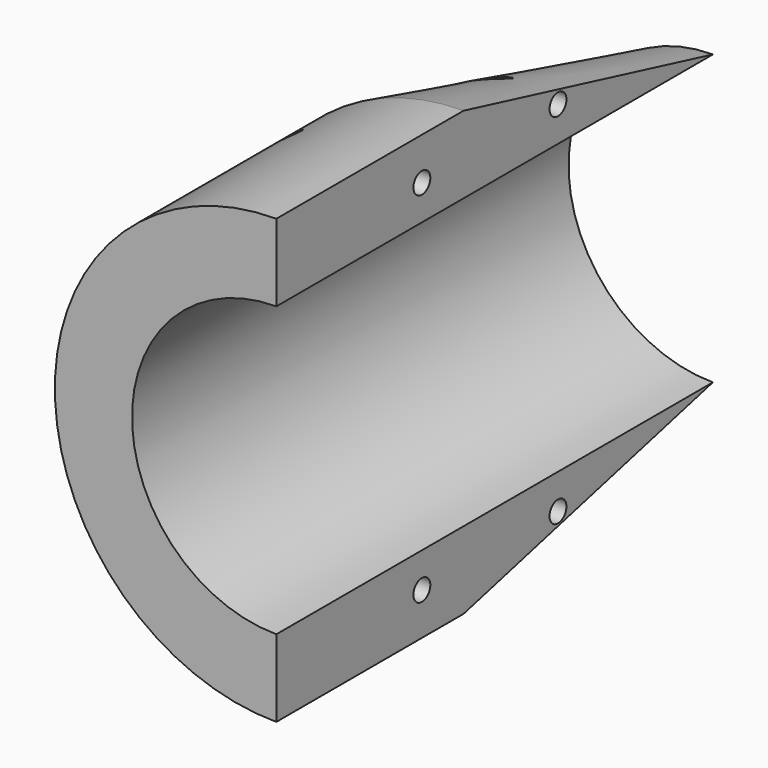
from build123d import *

# Parameters (mm, degrees)
F2_ANGLE       = 180
F4_D           = 12
F4_CBORE_D     = 18
F4_CBORE_DEPTH = 20


with BuildPart() as f2:
    # F0 (on Top) → F2 (revolve, symmetric)
    with BuildSketch(Plane.XY) as f2_sk:
        Polygon((-188.75, 0), (-123, 0), (-123, 465), (-188.75, 199.4), align=None)
    revolve(axis=Axis((0, 70.437513, 0), (0, 1, 0)), revolution_arc=F2_ANGLE / 2)
    revolve(f2_sk.sketch, axis=Axis((0, 70.437513, 0), (0, -1, 0)), revolution_arc=F2_ANGLE / 2)

    # F4 (through all)
    with Locations(Plane.YZ):
        with Locations((155, 152.75), (300, 152.75), (300, -152.75), (155, -152.75)):
            CounterBoreHole(F4_D / 2, F4_CBORE_D / 2, F4_CBORE_DEPTH)


solid = f2.part
